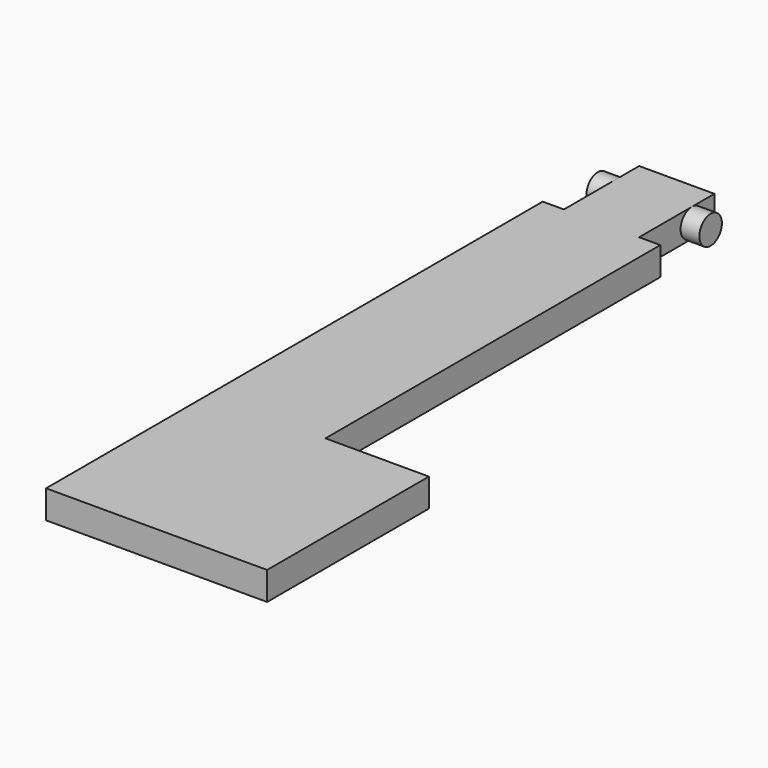
from build123d import *

# Parameters (mm, degrees)
PAD_DEPTH    = 3
SKETCH001_R  = 1.5
PAD001_DEPTH = 6
SKETCH002_R  = 2.1
POCKET_DEPTH = 2
SKETCH003_R  = 3
PAD002_DEPTH = 3
FILLET_R     = 2.75


with BuildPart() as part:
    # Sketch → Pad (new body)
    with BuildSketch(Plane.XY):
        Polygon((-6.25, 33), (-6.25, -33), (17.25, -33), (17.25, -11.5), (6.25, -11.5), (6.25, 33), (4, 33), (4, 43), (-4, 43), (-4, 33), align=None)
    extrude(amount=PAD_DEPTH)

    # Sketch001 → Pad001 (join, symmetric)
    with BuildSketch(Plane.YZ):
        with Locations((40, 1.5)):
            Circle(SKETCH001_R)
    extrude(amount=PAD001_DEPTH, both=True)

    # Sketch002 (on Face4 of Pad001) → Pocket (cut)
    with BuildSketch(Plane(origin=(0, 0, 0), x_dir=(1, 0, 0), z_dir=(0, 0, -1))):
        with Locations((5.5, 23)):
            Circle(SKETCH002_R)
    extrude(amount=-POCKET_DEPTH, mode=Mode.SUBTRACT)

    # Sketch003 (on Face4 of Pocket) → Pad002 (join)
    with BuildSketch(Plane(origin=(0, 0, 0), x_dir=(1, 0, 0), z_dir=(0, 0, -1))):
        with Locations((0, -23)):
            Circle(SKETCH003_R)
    extrude(amount=PAD002_DEPTH)

    # Fillet
    fillet_edges = [part.edges().sort_by_distance(p)[0] for p in [
        (-3, 23, -3),
    ]]
    fillet(fillet_edges, radius=FILLET_R)


solid = part.part
